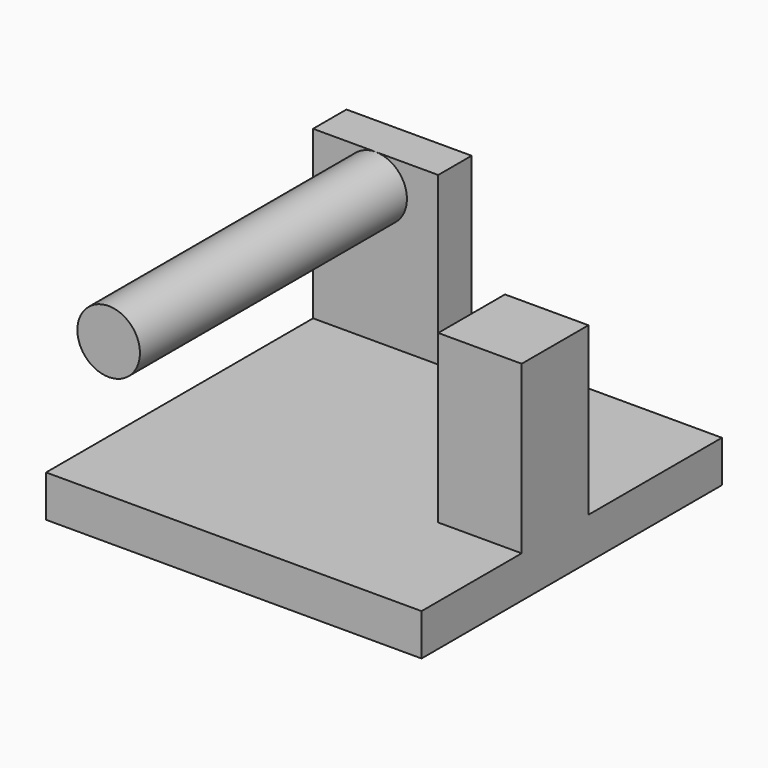
from build123d import *

# Parameters (mm, degrees)
F0_W     = 114.3
F0_H     = 114.3
F1_DEPTH = 12.7
F2_W     = 38.1
F2_H     = 12.7
F3_DEPTH = 50.8
F5_DEPTH = 101.6
F7_DEPTH = 50.8


with BuildPart() as f1:
    # F0 (on Top) → F1 (new body)
    with BuildSketch(Plane.XY):
        with Locations((57.15, -57.15)):
            Rectangle(F0_W, F0_H)
    extrude(amount=F1_DEPTH)

    # F2 (on face) → F3 (join)
    with BuildSketch(Plane.XY.offset(12.7)):
        with Locations((19.05, -6.35)):
            Rectangle(F2_W, F2_H)
    extrude(amount=F3_DEPTH)

    # F4 (on face) → F5 (join, through all)
    with BuildSketch(Plane.XZ.offset(12.7)):
        with BuildLine():
            Line((9.525, 53.975), (28.575, 53.975))
            ThreePointArc((28.575, 53.975), (19.05, 63.5), (9.525, 53.975))
        make_face()
        with BuildLine():
            ThreePointArc((9.525, 53.975), (19.05, 44.45), (28.575, 53.975))
            Line((28.575, 53.975), (9.525, 53.975))
        make_face()
    extrude(amount=F5_DEPTH)

    # F6 (on face) → F7 (join, through all)
    with BuildSketch(Plane.XY.offset(12.7)):
        Polygon((114.3, -76.2), (114.3, -50.8), (88.9, -50.8), (88.9, -63.5), (88.9, -76.2), align=None)
    extrude(amount=F7_DEPTH)


solid = f1.part
